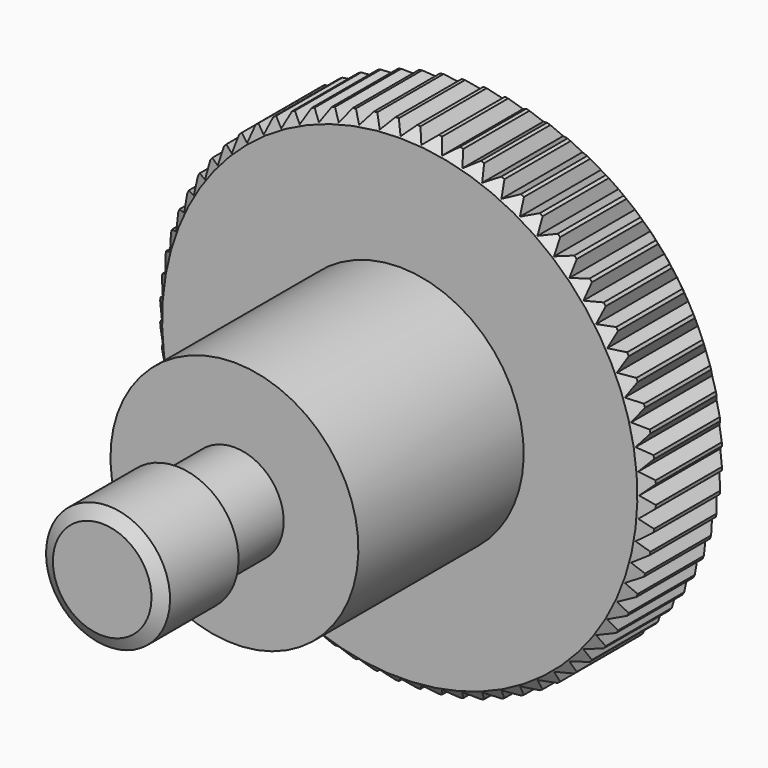
from build123d import *

# Parameters (mm, degrees)
POCKET_DEPTH       = 105.001
POLARPATTERN_COUNT = 72


with BuildPart() as part:
    # Sketch → Revolution (revolve)
    with BuildSketch(Plane.YZ):
        Polygon((0, 0), (0, 2.385), (0.35507, 3), (4.5, 3), (4.85507, 2.385), (8, 2.385), (8, 6), (18, 6), (18, 11.5), (18.5, 12), (22.5, 12), (23, 11.5), (23, 0), align=None)
    revolve(axis=Axis((0, 0, 0), (0, 1, 0)))

    # Sketch001 → Pocket (cut, through all)
    with BuildSketch(Plane.ZX.offset(23)):
        Polygon((-0.5, 12.05), (0, 11.55), (0.5, 12.05), align=None)
    pocket = extrude(amount=-POCKET_DEPTH, mode=Mode.SUBTRACT)

    # PolarPattern: Pocket ×72 about axis
    polarpattern_axis = Axis((0, 23, 0), (0, 1, 0))
    for i in range(1, POLARPATTERN_COUNT):
        add(pocket.rotate(polarpattern_axis, i * 360 / POLARPATTERN_COUNT), mode=Mode.SUBTRACT)


solid = part.part
